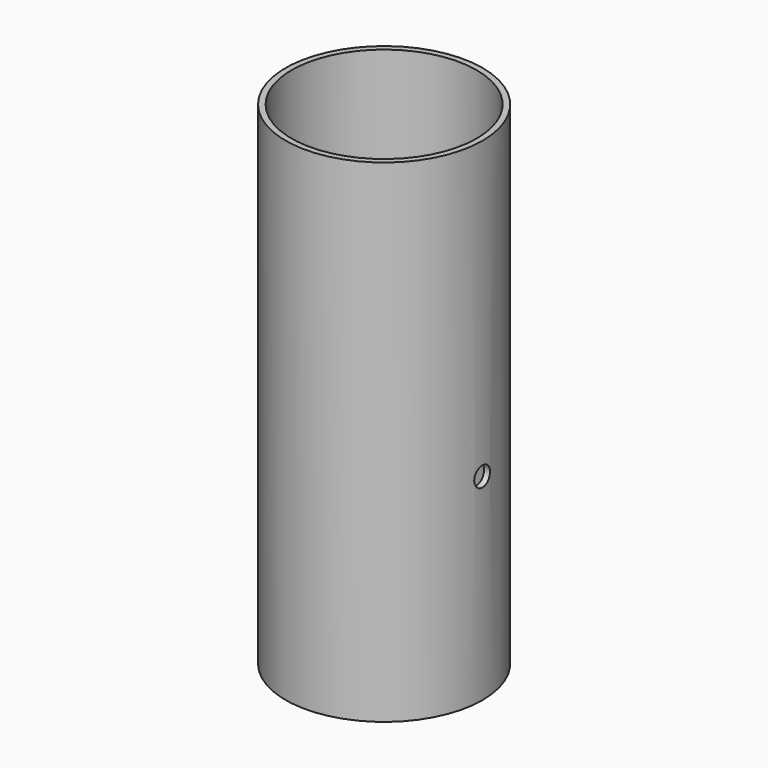
from build123d import *

# Parameters (mm, degrees)
F0_R     = 50
F0_R_2   = 47
F1_DEPTH = 250
F2_R     = 5
F3_DEPTH = 100


with BuildPart() as f1:
    # F0 (on Top) → F1 (new body)
    with BuildSketch(Plane.XY):
        Circle(F0_R)
        Circle(F0_R_2, mode=Mode.SUBTRACT)
    extrude(amount=F1_DEPTH)

    # F2 (on Right) → F3 (cut, symmetric)
    with BuildSketch(Plane.YZ):
        with Locations((0, 100)):
            Circle(F2_R)
    extrude(amount=F3_DEPTH, both=True, mode=Mode.SUBTRACT)


solid = f1.part
